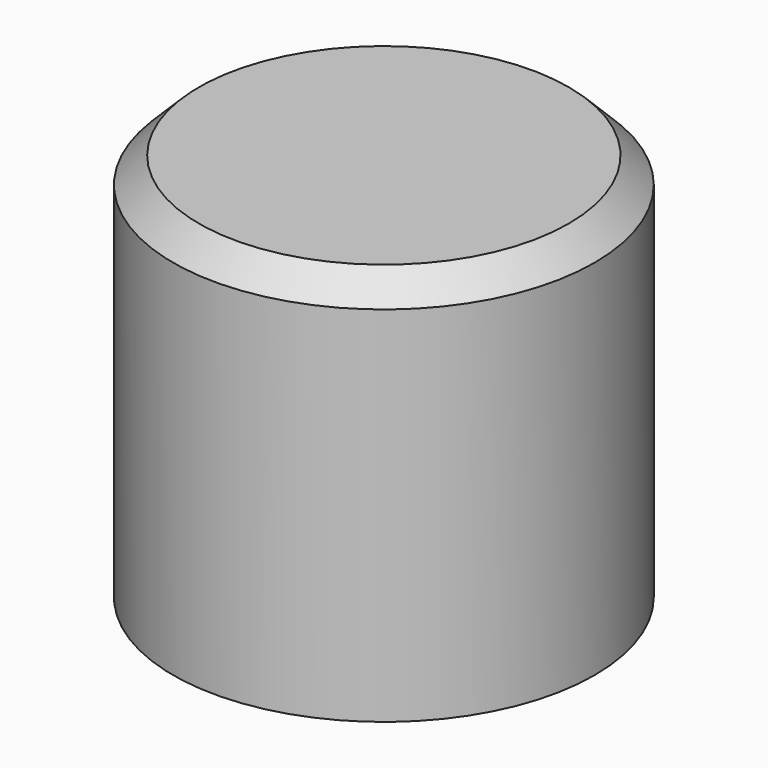
from build123d import *

# Parameters (mm, degrees)
F0_R     = 41.283665
F1_DEPTH = 76.2
F2_SIZE  = 5.08
F3_T     = -2.54


with BuildPart() as f1:
    # F0 (on Top) → F1 (new body)
    with BuildSketch(Plane.XY):
        Circle(F0_R)
    extrude(amount=F1_DEPTH)

    # F2
    f2_edges = [f1.edges().sort_by_distance(p)[0] for p in [
        (-41.283665, 0, 76.2),
    ]]
    chamfer(f2_edges, length=F2_SIZE)

    # F3
    f3_openings = [f1.faces().sort_by_distance(p)[0] for p in [
        (0, 0, 0),
    ]]
    offset(amount=F3_T, openings=f3_openings)


solid = f1.part
